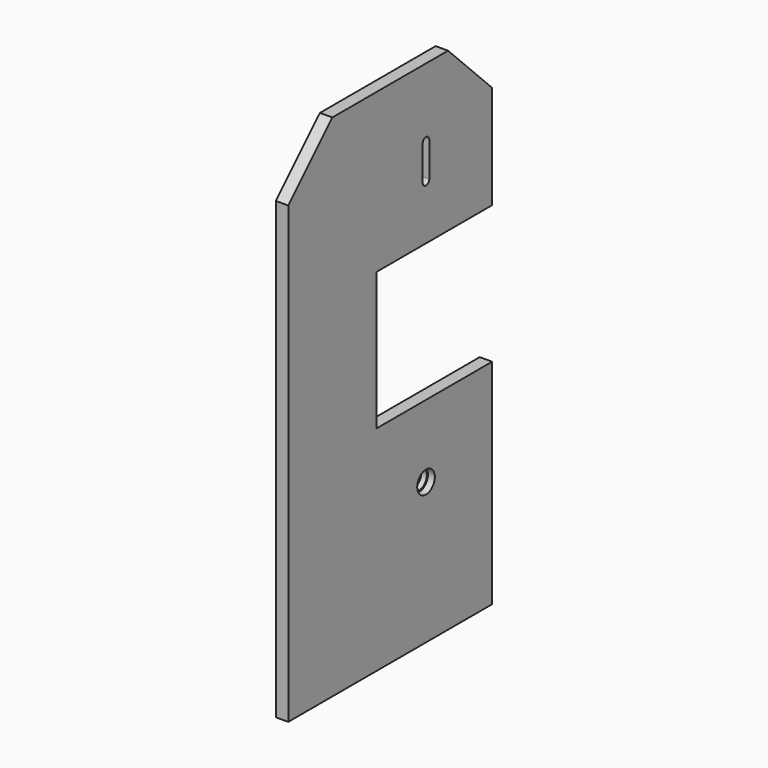
from build123d import *

# Parameters (mm, degrees)
F1_DEPTH = 18
F2_SIZE  = 80
F3_R     = 16
F4_DEPTH = 10
F5_R     = 14
F6_DEPTH = 18


with BuildPart() as f1:
    # F0 (on Right) → F1 (new body)
    with BuildSketch(Plane.YZ):
        Polygon((0, 740), (0, 0), (370, 0), (370, 310), (160, 310), (160, 510), (370, 510), (370, 740), align=None)
        with BuildLine():
            ThreePointArc((244.026492, 640.563206), (250.281914, 645.993373), (256, 640))
            Line((256, 640), (256, 590))
            ThreePointArc((256, 590), (250.281914, 584.006627), (244.026492, 589.436794))
            ThreePointArc((244.026492, 589.436794), (244, 590), (244.026492, 590.563206))
            Line((244.026492, 590.563206), (244.026492, 639.436794))
            ThreePointArc((244.026492, 639.436794), (244, 640), (244.026492, 640.563206))
        make_face(mode=Mode.SUBTRACT)
    extrude(amount=F1_DEPTH)

    # F2
    f2_edges = [f1.edges().sort_by_distance(p)[0] for p in [
        (9, 0, 740),
        (9, 370, 740),
    ]]
    chamfer(f2_edges, length=F2_SIZE)

    # F3 (on face) → F4 (cut)
    with BuildSketch(Plane.YZ.offset(18)):
        with Locations((250, 205)):
            Circle(F3_R)
    extrude(amount=-F4_DEPTH, mode=Mode.SUBTRACT)

    # F5 (on face) → F6 (cut)
    with BuildSketch(Plane.YZ.offset(18)):
        with Locations((250, 205)):
            Circle(F5_R)
    extrude(amount=-F6_DEPTH, mode=Mode.SUBTRACT)


solid = f1.part
